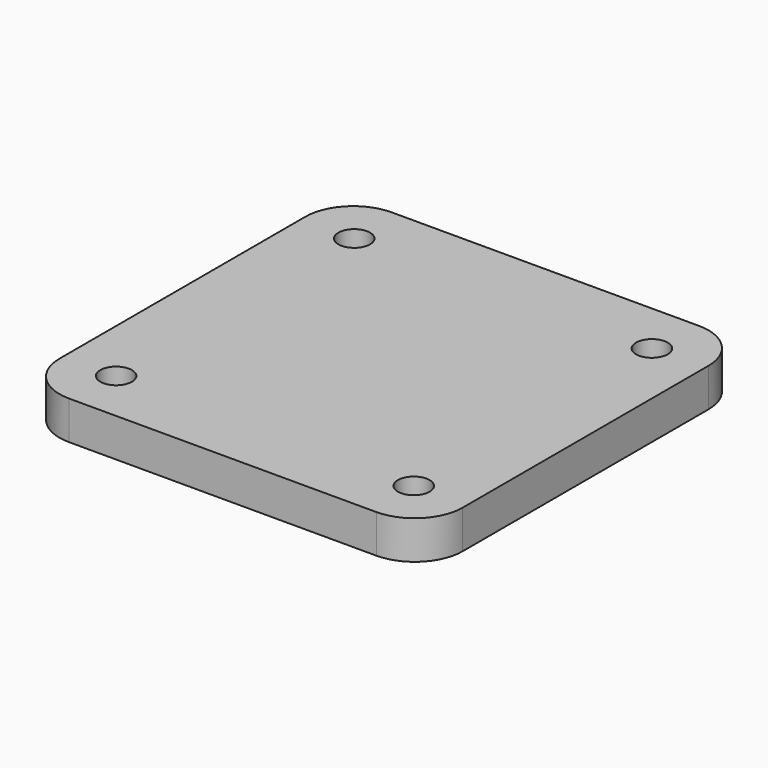
from build123d import *

# Parameters (mm, degrees)
F0_W     = 42
F0_H     = 42
F0_R     = 1.65
F1_DEPTH = 4
F2_R     = 5


with BuildPart() as f1:
    # F0 (on Top) → F1 (new body)
    with BuildSketch(Plane.XY):
        with Locations((12.275352, -3.396042)):
            Rectangle(F0_W, F0_H)
        with Locations((-3.224648, -18.896042)):
            Circle(F0_R, mode=Mode.SUBTRACT)
        with Locations((27.775352, -18.896042)):
            Circle(F0_R, mode=Mode.SUBTRACT)
        with Locations((-3.224648, 12.103958)):
            Circle(F0_R, mode=Mode.SUBTRACT)
        with Locations((27.775352, 12.103958)):
            Circle(F0_R, mode=Mode.SUBTRACT)
    extrude(amount=F1_DEPTH)

    # F2
    f2_edges = [f1.edges().sort_by_distance(p)[0] for p in [
        (-8.724648, -24.396042, 2),
        (33.275352, -24.396042, 2),
        (33.275352, 17.603958, 2),
        (-8.724648, 17.603958, 2),
    ]]
    fillet(f2_edges, radius=F2_R)


solid = f1.part
